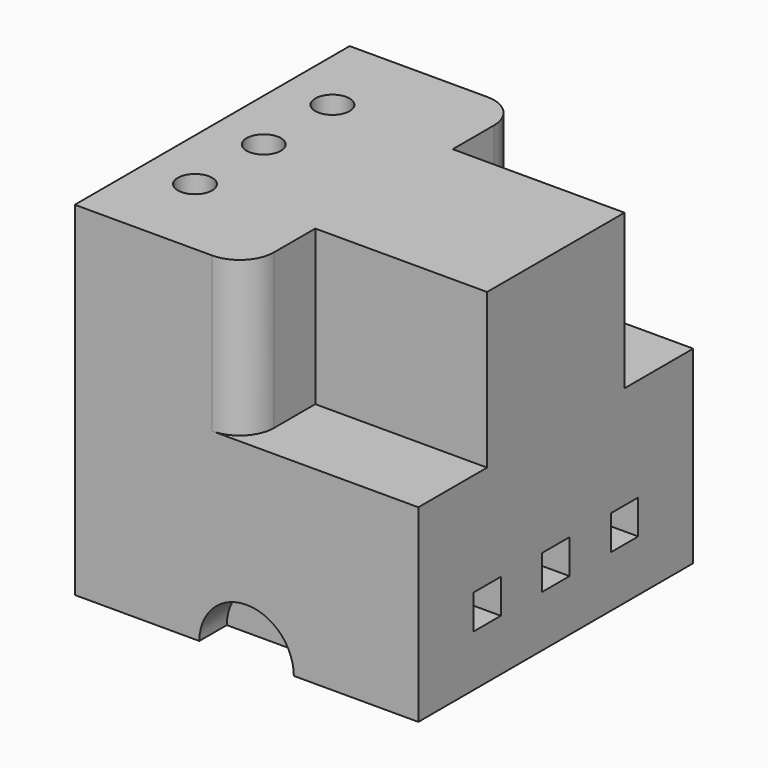
from build123d import *

# Parameters (mm, degrees)
F0_W     = 100
F0_H     = 100
F1_DEPTH = 100
F2_R     = 5
F3_DEPTH = 100.001
F4_DEPTH = 45
F5_W     = 10
F5_H     = 10
F6_DEPTH = 25
F8_DEPTH = 10


with BuildPart() as f1:
    # F0 (on Front) → F1 (new body)
    with BuildSketch(Plane.XZ):
        with Locations((50, 50)):
            Rectangle(F0_W, F0_H)
    extrude(amount=F1_DEPTH)

    # F2 (on face) → F3 (cut, through all)
    with BuildSketch(Plane.XY.offset(100)):
        with Locations((15, -25)):
            Circle(F2_R)
        with Locations((15, -50)):
            Circle(F2_R)
        with Locations((15, -75)):
            Circle(F2_R)
    extrude(amount=-F3_DEPTH, mode=Mode.SUBTRACT)

    # F2 (on face) → F4 (cut)
    with BuildSketch(Plane.XY.offset(100)):
        with BuildLine():
            Line((50, -25), (100, -25))
            Line((100, -25), (100, 0))
            Line((100, 0), (40, 0))
            ThreePointArc((40, 0), (47.071068, -2.928932), (50, -10))
            Line((50, -10), (50, -25))
        make_face()
        with BuildLine():
            Line((100, -100), (100, -75))
            Line((100, -75), (50, -75))
            Line((50, -75), (50, -90))
            ThreePointArc((50, -90), (47.071068, -97.071068), (40, -100))
            Line((40, -100), (100, -100))
        make_face()
    extrude(amount=-F4_DEPTH, mode=Mode.SUBTRACT)

    # F5 (on face) → F6 (cut)
    with BuildSketch(Plane.YZ.offset(100)):
        with Locations((-75, 20)):
            Rectangle(F5_W, F5_H)
        with Locations((-50, 20)):
            Rectangle(F5_W, F5_H)
        with Locations((-25, 20)):
            Rectangle(F5_W, F5_H)
    extrude(amount=-F6_DEPTH, mode=Mode.SUBTRACT)

    # F7 (on face) → F8 (cut)
    with BuildSketch(Plane.XZ.offset(100)):
        with BuildLine():
            Line((36.25, 0), (63.75, 0))
            ThreePointArc((63.75, 0), (50, 13.75), (36.25, 0))
        make_face()
    extrude(amount=-F8_DEPTH, mode=Mode.SUBTRACT)


solid = f1.part
